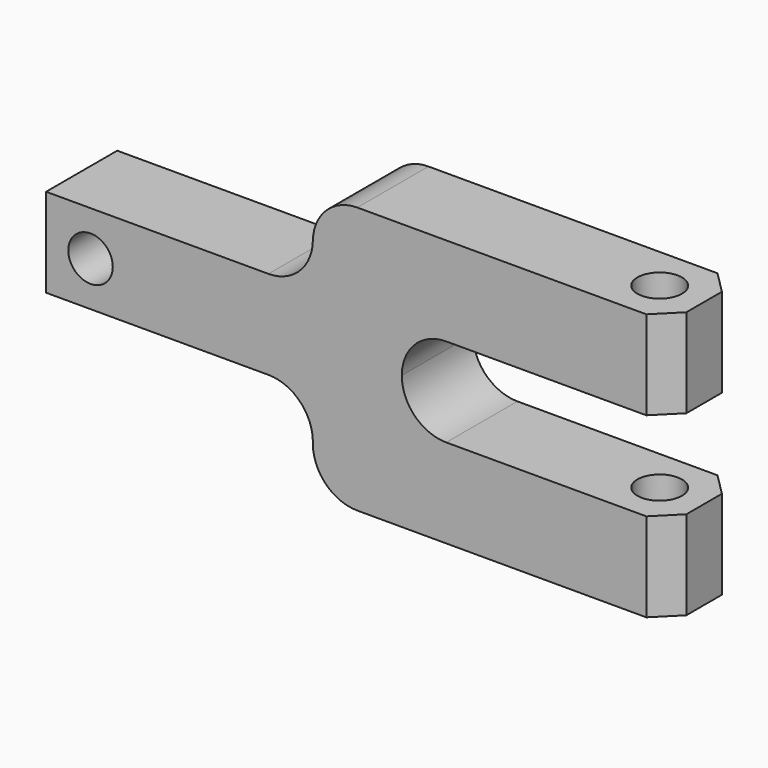
from build123d import *

# Parameters (mm, degrees)
F0_R     = 6.35
F1_DEPTH = 25.4
F3_D     = 12.7
F4_SIZE  = 6.35


with BuildPart() as f1:
    # F0 (on Front) → F1 (new body)
    with BuildSketch(Plane.XZ):
        with BuildLine():
            Line((12.7, 12.7), (-50.8, 12.7))
            Line((-50.8, 12.7), (-50.8, -12.7))
            Line((-50.8, -12.7), (12.7, -12.7))
            ThreePointArc((12.7, -12.7), (21.680256, -16.419744), (25.4, -25.4))
            Line((25.4, -25.4), (25.4, -25.867894))
            ThreePointArc((25.4, -25.867894), (29.119744, -34.84815), (38.1, -38.567894))
            Line((38.1, -38.567894), (127, -38.567894))
            Line((127, -38.567894), (127, -13.167894))
            Line((127, -13.167894), (63.5, -13.167894))
            ThreePointArc((63.5, -13.167894), (54.519744, -9.44815), (50.8, -0.467894))
            ThreePointArc((50.8, -0.467894), (54.519744, 8.512362), (63.5, 12.232106))
            Line((63.5, 12.232106), (127, 12.232106))
            Line((127, 12.232106), (127, 37.632106))
            Line((127, 37.632106), (38.1, 37.632106))
            ThreePointArc((38.1, 37.632106), (29.119744, 33.912362), (25.4, 24.932106))
            Line((25.4, 24.932106), (25.4, 25.4))
            ThreePointArc((25.4, 25.4), (21.680256, 16.419744), (12.7, 12.7))
        make_face()
        with Locations((-38.1, 0)):
            Circle(F0_R, mode=Mode.SUBTRACT)
    extrude(amount=F1_DEPTH)

    # F3 (through all)
    with Locations(Plane(origin=(0, 0, -38.567894), x_dir=(1, 0, 0), z_dir=(0, 0, -1))):
        with Locations((114.3, 12.7)):
            Hole(F3_D / 2)

    # F4
    f4_edges = [f1.edges().sort_by_distance(p)[0] for p in [
        (127, -25.4, -25.867894),
        (127, 0, -25.867894),
        (127, -25.4, 24.932106),
        (127, 0, 24.932106),
    ]]
    chamfer(f4_edges, length=F4_SIZE)


solid = f1.part
